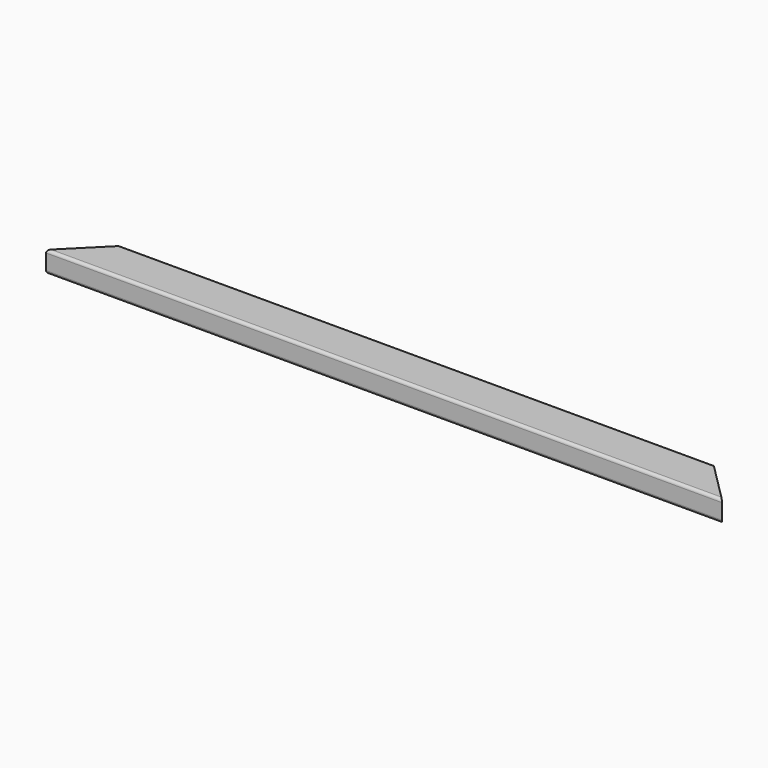
from build123d import *

# Parameters (mm, degrees)
F0_W     = 1219.2
F0_H     = 76.2
F1_DEPTH = 38.1
F3_DEPTH = 38.101
F4_R     = 5.08


with BuildPart() as f1:
    # F0 (on Top) → F1 (new body)
    with BuildSketch(Plane.XY):
        Rectangle(F0_W, F0_H)
    extrude(amount=F1_DEPTH)

    # F2 (on face) → F3 (cut, through all)
    with BuildSketch(Plane.XY.offset(38.1)):
        Polygon((-609.6, 38.1), (-609.6, -38.1), (-533.4, 38.1), align=None)
        Polygon((533.4, 38.1), (609.6, -38.1), (609.6, 38.1), align=None)
    extrude(amount=-F3_DEPTH, mode=Mode.SUBTRACT)

    # F4
    f4_edges = [f1.edges().sort_by_distance(p)[0] for p in [
        (0, 38.1, 0),
        (0, -38.1, 0),
        (0, -38.1, 38.1),
        (0, 38.1, 38.1),
    ]]
    fillet(f4_edges, radius=F4_R)


solid = f1.part
